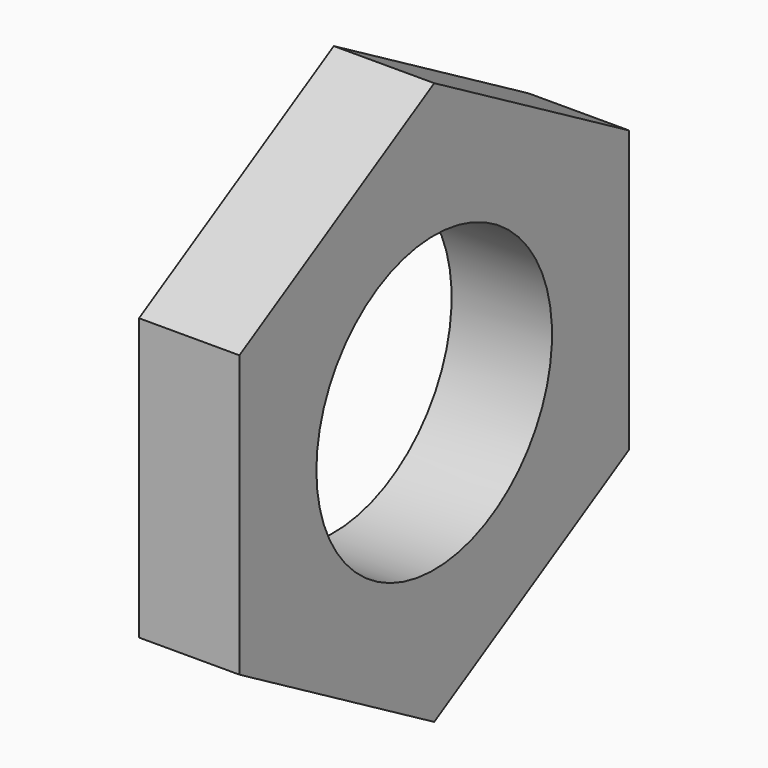
from build123d import *

# Parameters (mm, degrees)
CIRCLE023_R        = 2.2
EXTRUSION080_DEPTH = 24.9014
EXTRUSION079_DEPTH = 1.5


with BuildPart() as extrusion080:
    # Circle023 → Extrusion080 (new body)
    with BuildSketch(Plane(origin=(-317.078363, 162.03651, 0.266052), x_dir=(0, -1, 0), z_dir=(-1, 0, 0))):
        Circle(CIRCLE023_R)
    extrude(amount=-EXTRUSION080_DEPTH)


with BuildPart() as cut010012012:
    # Wire006 → Extrusion079 (new body)
    with BuildSketch(Plane(origin=(-317.078363, 158.399203, -1.833948), x_dir=(0, -1, 0), z_dir=(-1, 0, 0))):
        Polygon((0, 0), (-3.637307, -2.1), (-7.274613, 0), (-7.274613, 4.2), (-3.637307, 6.3), (0, 4.2), align=None)
    extrude(amount=-EXTRUSION079_DEPTH)

    # Cut010012012: cut Extrusion080
    add(extrusion080.part, mode=Mode.SUBTRACT)


solid = cut010012012.part
